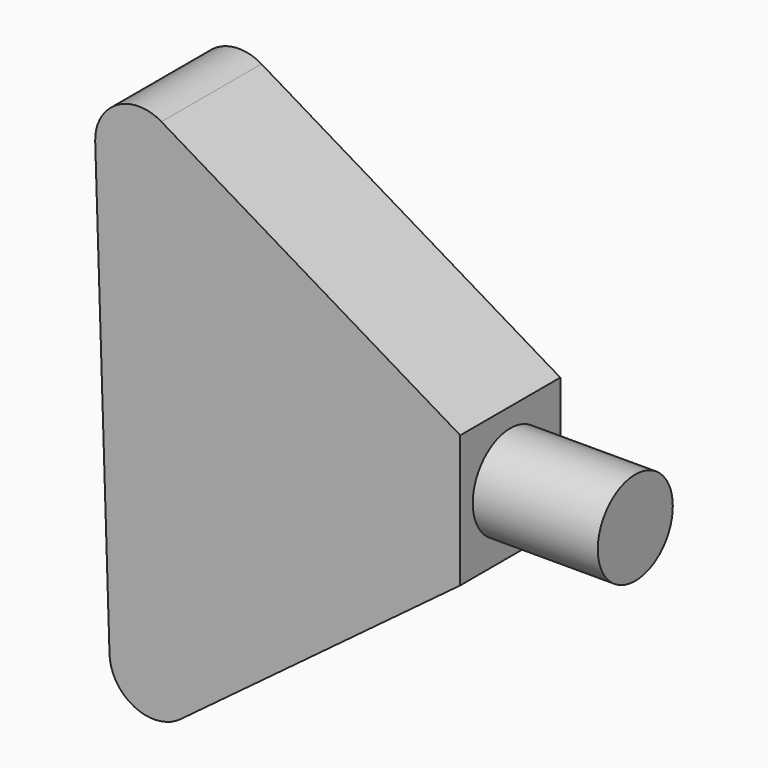
from build123d import *

# Parameters (mm, degrees)
F1_DEPTH = 0.508
F2_R     = 0.381
F3_DEPTH = 1.016
F4_R     = 0.3618562266
F5_R     = 0.3556


with BuildPart() as f1:
    # F0 (on Front) → F1 (new body, symmetric)
    with BuildSketch(Plane.XZ):
        Polygon((-6.2513332814, 61.9564950466), (-9.2383846641, 63.7445375323), (-9.0790754184, 58.7723441422), (-6.2513332814, 60.8824528754), align=None)
    extrude(amount=F1_DEPTH, both=True)

    # F2 (on face) → F3 (join)
    with BuildSketch(Plane.YZ.offset(-6.2513332814)):
        with Locations((0, 61.419473961)):
            Circle(F2_R)
    extrude(amount=F3_DEPTH)

    # F4
    f4_edges = [f1.edges().sort_by_distance(p)[0] for p in [
        (-9.079075, 0, 58.772344),
    ]]
    fillet(f4_edges, radius=F4_R)

    # F5
    f5_edges = [f1.edges().sort_by_distance(p)[0] for p in [
        (-9.238385, 0, 63.744538),
    ]]
    fillet(f5_edges, radius=F5_R)


solid = f1.part
